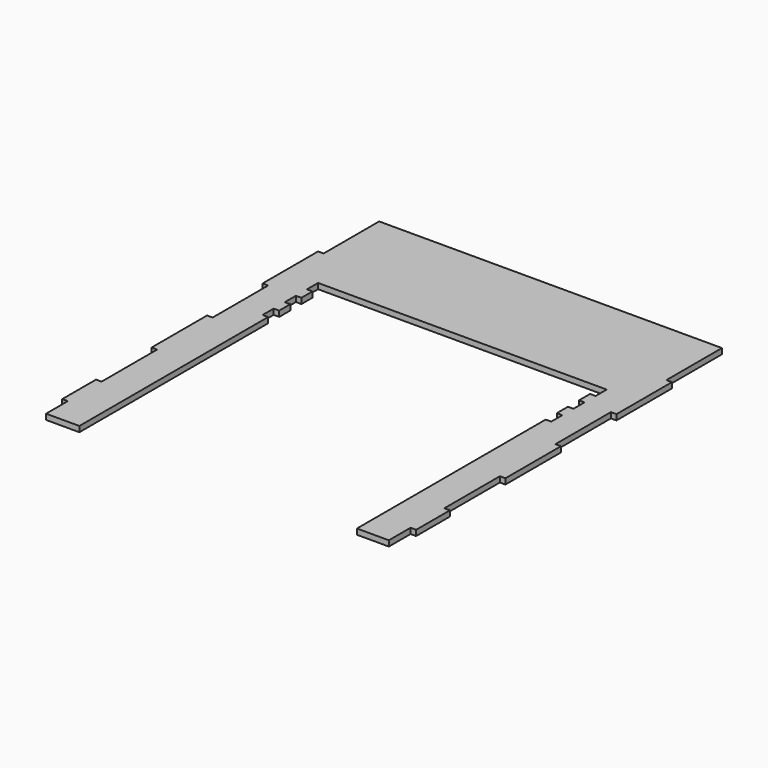
from build123d import *

# Parameters (mm, degrees)
F1_DEPTH = 4


with BuildPart() as f1:
    # F0 (on Top) → F1 (new body)
    with BuildSketch(Plane.XY):
        Polygon((-27, 0), (-4, 0), (-4, 19.556), (0, 19.556), (0, 50), (-4, 50), (-4, 100), (0, 100), (0, 150), (-4, 150), (-4, 200), (0, 200), (0, 250), (-4, 250), (-4, 300), (-251, 300), (-251, 250), (-255, 250), (-255, 200), (-251, 200), (-251, 150), (-255, 150), (-255, 100), (-251, 100), (-251, 50), (-255, 50), (-255, 19.556), (-251, 19.556), (-251, 0), (-227, 0), (-227, 170), (-231, 170), (-231, 180), (-227, 180), (-227, 190), (-231, 190), (-231, 200), (-227, 200), (-227, 210), (-231, 210), (-231, 220), (-227, 220), (-27, 220), (-23, 220), (-23, 210), (-27, 210), (-27, 200), (-23, 200), (-23, 190), (-27, 190), (-27, 180), (-23, 180), (-23, 170), (-27, 170), align=None)
    extrude(amount=F1_DEPTH)


solid = f1.part
